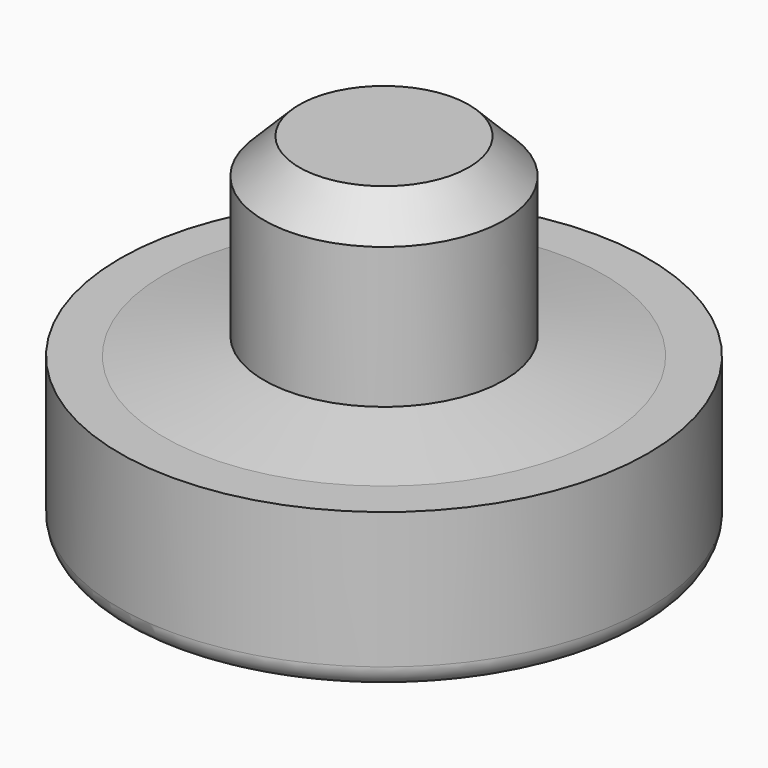
from build123d import *

# Parameters (mm, degrees)
F2_SIZE = 2.54
F3_R    = 1.5875


with BuildPart() as f1:
    # F0 (on Front) → F1 (revolve)
    with BuildSketch(Plane.XZ):
        Polygon((8.6614, 14.962643), (0, 14.962643), (0, -10.437357), (19.05, -10.437357), (19.05, 0.990691), (15.875, 0.990691), (8.6614, 2.262643), align=None)
    revolve(axis=Axis((0, 0, 1.824711), (0, 0, -1)))

    # F2
    f2_edges = [f1.edges().sort_by_distance(p)[0] for p in [
        (-8.6614, 0, 14.962643),
    ]]
    chamfer(f2_edges, length=F2_SIZE)

    # F3
    f3_edges = [f1.edges().sort_by_distance(p)[0] for p in [
        (-19.05, 0, -10.437357),
    ]]
    fillet(f3_edges, radius=F3_R)


solid = f1.part
